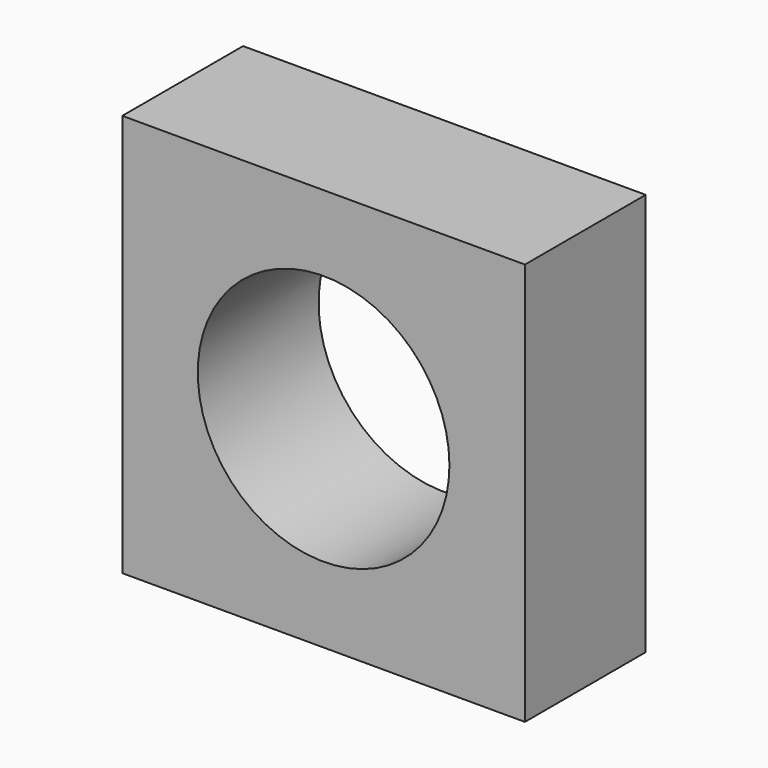
from build123d import *

# Parameters (mm, degrees)
F0_W     = 101.6
F0_H     = 101.6
F0_R     = 31.75
F1_DEPTH = 38.1


with BuildPart() as f1:
    # F0 (on Front) → F1 (new body)
    with BuildSketch(Plane.XZ):
        Rectangle(F0_W, F0_H)
        Circle(F0_R, mode=Mode.SUBTRACT)
    extrude(amount=-F1_DEPTH)


solid = f1.part
